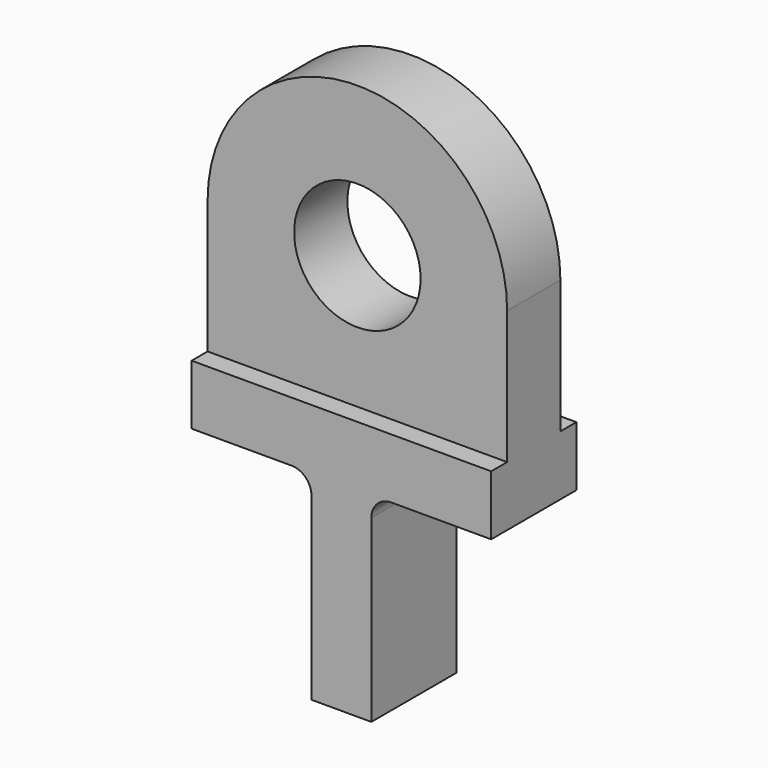
from build123d import *

# Parameters (mm, degrees)
F1_DEPTH = 8
F0_R     = 9.5
F2_DEPTH = 5


with BuildPart() as f1:
    # F0 (on Front) → F1 (new body, symmetric)
    with BuildSketch(Plane.XZ):
        with BuildLine():
            Line((22.5, -29), (22.5, -20))
            Line((22.5, -20), (-22.5, -20))
            Line((-22.5, -20), (-22.5, -29))
            Line((-22.5, -29), (-7.5, -29))
            ThreePointArc((-7.5, -29), (-5.37868, -29.87868), (-4.5, -32))
            Line((-4.5, -32), (-4.5, -59))
            Line((-4.5, -59), (0, -59))
            Line((0, -59), (4.5, -59))
            Line((4.5, -59), (4.5, -32))
            ThreePointArc((4.5, -32), (5.37868, -29.87868), (7.5, -29))
            Line((7.5, -29), (22.5, -29))
        make_face()
    extrude(amount=F1_DEPTH, both=True)

    # F0 (on Front) → F2 (join, symmetric)
    with BuildSketch(Plane.XZ):
        with BuildLine():
            Line((22.5, -20), (22.5, 0))
            ThreePointArc((22.5, 0), (0, 22.5), (-22.5, 0))
            Line((-22.5, 0), (-22.5, -20))
            Line((-22.5, -20), (22.5, -20))
        make_face()
        Circle(F0_R, mode=Mode.SUBTRACT)
    extrude(amount=F2_DEPTH, both=True)


solid = f1.part
